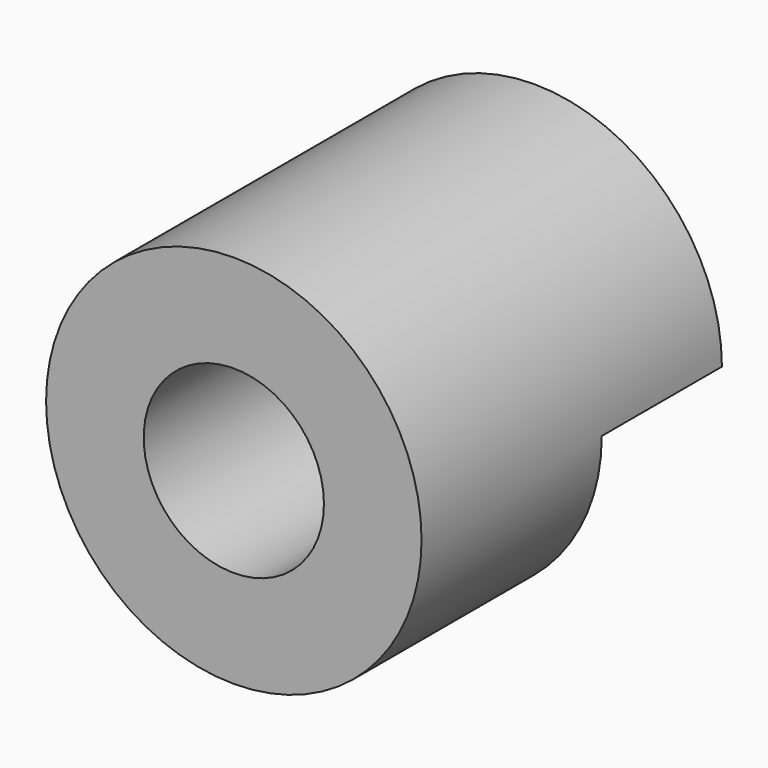
from build123d import *

# Parameters (mm, degrees)
F0_R     = 12.5
F0_R_2   = 6
F1_DEPTH = 25
F2_R     = 9.5
F3_DEPTH = 10
F4_W     = 32.378687
F4_H     = 14.496426
F5_DEPTH = 10


with BuildPart() as f1:
    # F0 (on Front) → F1 (new body)
    with BuildSketch(Plane.XZ):
        Circle(F0_R)
        Circle(F0_R_2, mode=Mode.SUBTRACT)
    extrude(amount=F1_DEPTH)

    # F2 (on Front) → F3 (cut)
    with BuildSketch(Plane.XZ):
        Circle(F2_R)
    extrude(amount=F3_DEPTH, mode=Mode.SUBTRACT)

    # F4 (on face) → F5 (cut)
    with BuildSketch(Plane(origin=(0, 0, 0), x_dir=(-1, 0, 0), z_dir=(0, 1, 0))):
        with Locations((-0.849587, -7.248213)):
            Rectangle(F4_W, F4_H)
    extrude(amount=-F5_DEPTH, mode=Mode.SUBTRACT)


solid = f1.part
